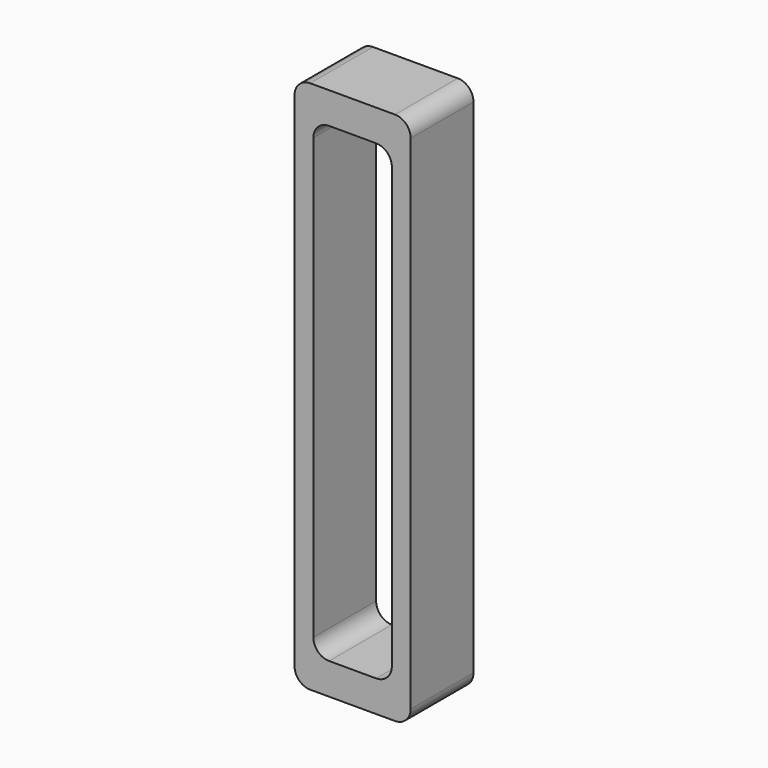
from build123d import *

# Parameters (mm, degrees)
F0_W     = 7.4
F0_H     = 34
F0_W_2   = 5
F0_H_2   = 30
F1_DEPTH = 5
F2_R     = 1


with BuildPart() as f1:
    # F0 (on Front) → F1 (new body)
    with BuildSketch(Plane.XZ):
        Rectangle(F0_W, F0_H)
        Rectangle(F0_W_2, F0_H_2, mode=Mode.SUBTRACT)
    extrude(amount=F1_DEPTH)

    # F2
    f2_edges = [f1.edges().sort_by_distance(p)[0] for p in [
        (3.7, -2.5, 17),
        (-3.7, -2.5, 17),
        (-3.7, -2.5, -17),
        (3.7, -2.5, -17),
        (-2.5, -2.5, 15),
        (2.5, -2.5, 15),
        (-2.5, -2.5, -15),
        (2.5, -2.5, -15),
    ]]
    fillet(f2_edges, radius=F2_R)


solid = f1.part
